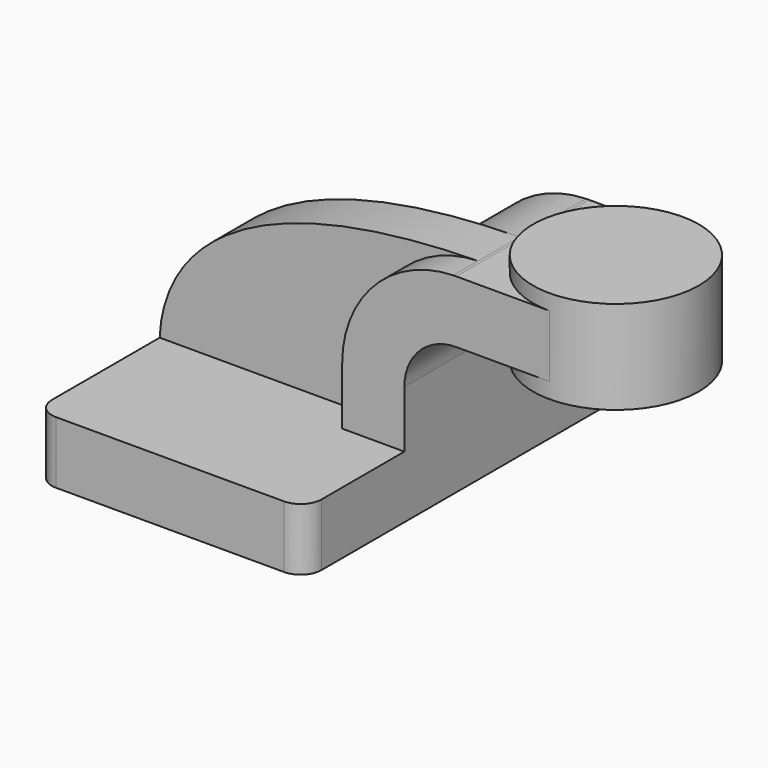
from build123d import *

# Parameters (mm, degrees)
F1_DEPTH = 63.5
F0_W     = 25.4
F0_H     = 19.05
F2_DEPTH = 25.4
F3_DEPTH = 15.875
F5_R     = 6.35


with BuildPart() as f1:
    # F0 (on Front) → F1 (new body, symmetric)
    with BuildSketch(Plane.XZ):
        Polygon((-41.275, 9.525), (-41.275, -9.525), (41.275, -9.525), (41.275, 9.525), (22.225, 9.525), align=None)
    extrude(amount=F1_DEPTH, both=True)

    # F0 (on Front) → F2 (join, symmetric)
    with BuildSketch(Plane.XZ):
        with BuildLine():
            Line((22.225, 9.525), (41.275, 9.525))
            Line((41.275, 9.525), (41.275, 27.0002))
            ThreePointArc((41.275, 27.0002), (45.9246798487, 38.2255201513), (57.15, 42.8752))
            Line((57.15, 42.8752), (60.325, 42.8752))
            Line((60.325, 42.8752), (60.325, 61.9252))
            Line((60.325, 61.9252), (57.15, 61.9252))
            add(Edge.make_bspline(
                [(56.2394540171, 61.9133283476), (56.5421172975, 61.9177221898), (56.8456319814, 61.9216800485), (57.15, 61.9252)],
                knots=[111.0448358966, 111.0448358966, 111.0448358966, 111.0448358966, 111.5045361635, 111.5045361635, 111.5045361635, 111.5045361635], degree=3))
            ThreePointArc((56.2394540171, 61.9133283476), (32.1344404075, 51.371851632), (22.225, 27.0002))
            Line((22.225, 27.0002), (22.225, 9.525))
        make_face()
        with Locations((73.025, 52.4002)):
            Rectangle(F0_W, F0_H)
    extrude(amount=F2_DEPTH, both=True)

    # F0 (on Front) → F3 (join)
    with BuildSketch(Plane.XZ):
        with BuildLine():
            add(Edge.make_bspline(
                [(-41.275, 9.525), (-40.3026354638, 34.3505741686), (-16.871650594, 60.8519552711), (56.2394540171, 61.9133283476)],
                knots=[0, 0, 0, 0, 111.0448358966, 111.0448358966, 111.0448358966, 111.0448358966], degree=3))
            Line((-41.275, 9.525), (22.225, 9.525))
            Line((22.225, 9.525), (22.225, 27.0002))
            ThreePointArc((22.225, 27.0002), (32.1344404075, 51.371851632), (56.2394540171, 61.9133283476))
        make_face()
    extrude(amount=F3_DEPTH)

    # F0 (on Front) → F4 (revolve)
    with BuildSketch(Plane.XZ):
        Polygon((85.725, 66.675), (85.725, 61.9252), (85.725, 42.8752), (85.725, 38.1), (111.125, 38.1), (111.125, 66.675), align=None)
    revolve(axis=Axis((85.725, 0, 52.3875), (0, 0, 1)))

    # F5
    f5_edges = [f1.edges().sort_by_distance(p)[0] for p in [
        (41.275, -63.5, 0),
        (-41.275, -63.5, 0),
        (41.275, 63.5, 0),
        (-41.275, 63.5, 0),
    ]]
    fillet(f5_edges, radius=F5_R)


solid = f1.part
